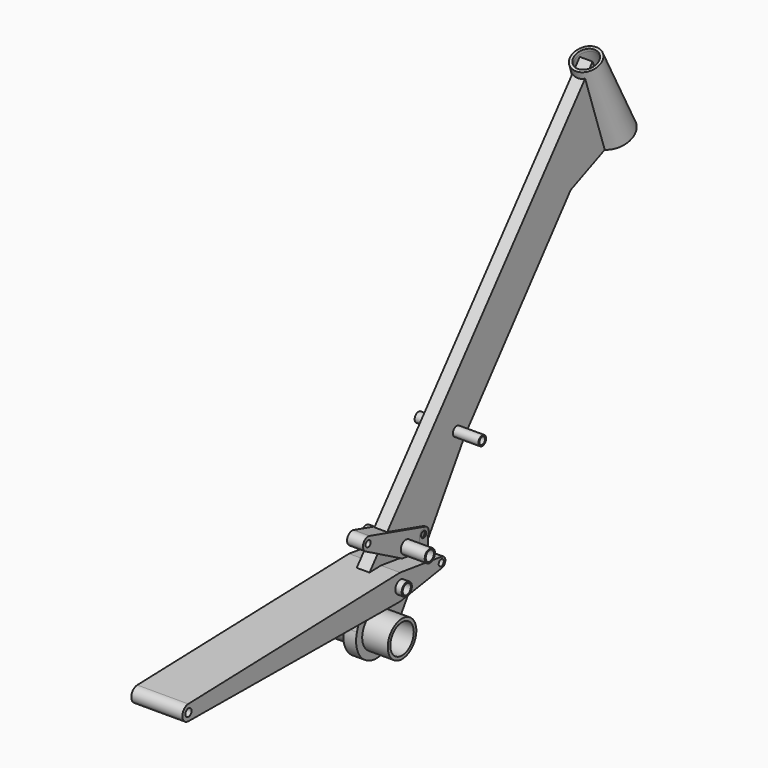
from build123d import *

# Parameters (mm, degrees)
F3_R      = 28
F3_R_2    = 23
F4_DEPTH  = 50
F6_R      = 28
F6_R_2    = 10
F6_R_3    = 7.5
F7_DEPTH  = 10
F8_R      = 7.5
F8_R_2    = 5.5
F8_R_3    = 10
F8_R_4    = 8
F9_DEPTH  = 50
F10_R     = 6
F10_R_2   = 10
F10_R_3   = 5
F11_DEPTH = 40
F12_R     = 10
F12_R_2   = 5
F13_DEPTH = 12.5
F14_R     = 5
F15_DEPTH = 12.5


with BuildPart() as f2:
    # F1 (on Right) → F2 (revolve)
    with BuildSketch(Plane.YZ):
        Polygon((-266.9396509428, 419.0074256556), (-262.3371266756, 420.961081298), (-264.290782318, 425.5636055653), (-303.4451822721, 539.5596809842), (-305.3988379146, 544.1622052514), (-309.3506002996, 542.4847816393), align=None)
    revolve(axis=Axis((0, -167.686068361, 264.5190829362), (0, 0.3907311285, -0.9205048535)))



with BuildPart() as f4:
    # F3 (on Right) → F4 (new body, symmetric)
    with BuildSketch(Plane.YZ):
        with Locations((-712.2900029792, -60)):
            Circle(F3_R)
        with Locations((-712.2900029792, -60)):
            Circle(F3_R_2, mode=Mode.SUBTRACT)
    extrude(amount=F4_DEPTH, both=True)


with BuildPart() as f2_1:
    add(f2.part)

    add(f4.part)  # F7 merges F4
    # F6 (on Right) → F7 (join, symmetric)
    with BuildSketch(Plane.YZ):
        with BuildLine():
            Line((-731.7016667887, 13.3829006523), (-750.5455547252, -48.3161324636))
            ThreePointArc((-750.5455547252, -48.3161324636), (-729.0358167039, -96.3259923842), (-678.5598453835, -81.5006155393))
            Line((-678.5598453835, -81.5006155393), (-538.8793337533, 137.6301187279))
            Line((-538.8793337533, 137.6301187279), (-332.2900029792, 391.2678469857))
            Line((-332.2900029792, 391.2678469857), (-238.4040004858, 431.1200906387))
            Line((-238.4040004858, 431.1200906387), (-289.2900029792, 551))
            Line((-289.2900029792, 551), (-726.1114012461, 23.7596289963))
            ThreePointArc((-726.1114012461, 23.7596289963), (-729.4211643053, 18.8485121291), (-731.7016667887, 13.3829006523))
        make_face()
        with Locations((-712.2900029792, -60)):
            Circle(F6_R, mode=Mode.SUBTRACT)
        with Locations((-703.0100029792, 4.62)):
            Circle(F6_R_2, mode=Mode.SUBTRACT)
        with Locations((-657.8800029792, 32.46)):
            Circle(F6_R_2, mode=Mode.SUBTRACT)
        with BuildLine():
            Line((-538.2549241813, 138.6096922303), (-538.8793337533, 137.6301187279))
            Line((-538.8793337533, 137.6301187279), (-539.6129548682, 136.7294236519))
            ThreePointArc((-539.6129548682, 136.7294236519), (-571.3333463306, 161.0701450618), (-538.2549241813, 138.6096922303))
        make_face(mode=Mode.SUBTRACT)
        with BuildLine():
            Line((-539.6129548682, 136.7294236519), (-538.8793337533, 137.6301187279))
            Line((-538.8793337533, 137.6301187279), (-538.2549241813, 138.6096922303))
            ThreePointArc((-538.2549241813, 138.6096922303), (-571.3333463306, 161.0701450618), (-539.6129548682, 136.7294236519))
        make_face()
        with Locations((-555.1200029792, 149.36)):
            Circle(F6_R_3, mode=Mode.SUBTRACT)
    extrude(amount=F7_DEPTH, both=True)

    # F8 (on Right) → F9 (join, symmetric)
    with BuildSketch(Plane.YZ):
        with Locations((-555.1200029792, 149.36)):
            Circle(F8_R)
        with Locations((-555.1200029792, 149.36)):
            Circle(F8_R_2, mode=Mode.SUBTRACT)
        with Locations((-703.0100029792, 4.62)):
            Circle(F8_R_3)
        with Locations((-703.0100029792, 4.62)):
            Circle(F8_R_4, mode=Mode.SUBTRACT)
        with Locations((-657.8800029792, 32.46)):
            Circle(F8_R_3)
        with Locations((-657.8800029792, 32.46)):
            Circle(F8_R_4, mode=Mode.SUBTRACT)
    extrude(amount=F9_DEPTH, both=True)


with BuildPart() as f11:
    # F10 (on Right) → F11 (new body, symmetric)
    with BuildSketch(Plane.YZ):
        with BuildLine():
            ThreePointArc((-1118.2409705034, 11.9944485346), (-1129.875254782, -0.1336252265), (-1117.9737697369, -11.9996016952))
            Line((-1117.9737697369, -11.9996016952), (-703.172954553, -15.3793361586))
            Line((-703.172954553, -15.3793361586), (-621.7595692531, -2.3900827098))
            ThreePointArc((-621.7595692531, -2.3900827098), (-615.0204981543, 5.5990087455), (-621.9356645429, 13.4361724783))
            Line((-621.9356645429, 13.4361724783), (-703.6182891638, 24.6107475577))
            Line((-703.6182891638, 24.6107475577), (-1118.2409705034, 11.9944485346))
        make_face()
        with Locations((-1117.8759987926, 0)):
            Circle(F10_R, mode=Mode.SUBTRACT)
        with Locations((-703.0100029792, 4.62)):
            Circle(F10_R_2, mode=Mode.SUBTRACT)
        with Locations((-623.0200029792, 5.51)):
            Circle(F10_R_3, mode=Mode.SUBTRACT)
    extrude(amount=F11_DEPTH, both=True)


with BuildPart() as f13:
    # F12 (on Right) → F13 (new body, symmetric)
    with BuildSketch(Plane.YZ):
        with BuildLine():
            Line((-620.244588345, 45.1171365978), (-729.074588345, 76.5571365978))
            ThreePointArc((-729.074588345, 76.5571365978), (-741.1013034314, 70.7465036472), (-736.6232053191, 58.1627057963))
            Line((-736.6232053191, 58.1627057963), (-665.0398064891, 19.2790586945))
            ThreePointArc((-665.0398064891, 19.2790586945), (-659.8762349557, 17.5934248095), (-654.4509012268, 17.8572173483))
            Line((-654.4509012268, 17.8572173483), (-620.7339351442, 25.7748115656))
            ThreePointArc((-620.7339351442, 25.7748115656), (-613.0232017103, 35.257088176), (-620.244588345, 45.1171365978))
        make_face()
        with Locations((-657.8800029792, 32.46)):
            Circle(F12_R, mode=Mode.SUBTRACT)
        with Locations((-623.0200029792, 35.51)):
            Circle(F12_R_2, mode=Mode.SUBTRACT)
        with Locations((-731.8500029792, 66.95)):
            Circle(F12_R_2, mode=Mode.SUBTRACT)
    extrude(amount=F13_DEPTH, both=True)


with BuildPart() as f15:
    # F14 (on Right) → F15 (new body, symmetric)
    with BuildSketch(Plane.YZ):
        with BuildLine():
            ThreePointArc((-615.0200029792, 35.51), (-623.0200029792, 43.51), (-631.0200029792, 35.51))
            Line((-631.0200029792, 35.51), (-631.0200029792, 5.51))
            ThreePointArc((-631.0200029792, 5.51), (-623.0200029792, -2.49), (-615.0200029792, 5.51))
            Line((-615.0200029792, 5.51), (-615.0200029792, 35.51))
        make_face()
        with Locations((-623.0200029792, 5.51)):
            Circle(F14_R, mode=Mode.SUBTRACT)
        with Locations((-623.0200029792, 35.51)):
            Circle(F14_R, mode=Mode.SUBTRACT)
    extrude(amount=F15_DEPTH, both=True)


solid = Compound([f2_1.part, f11.part, f13.part, f15.part])
